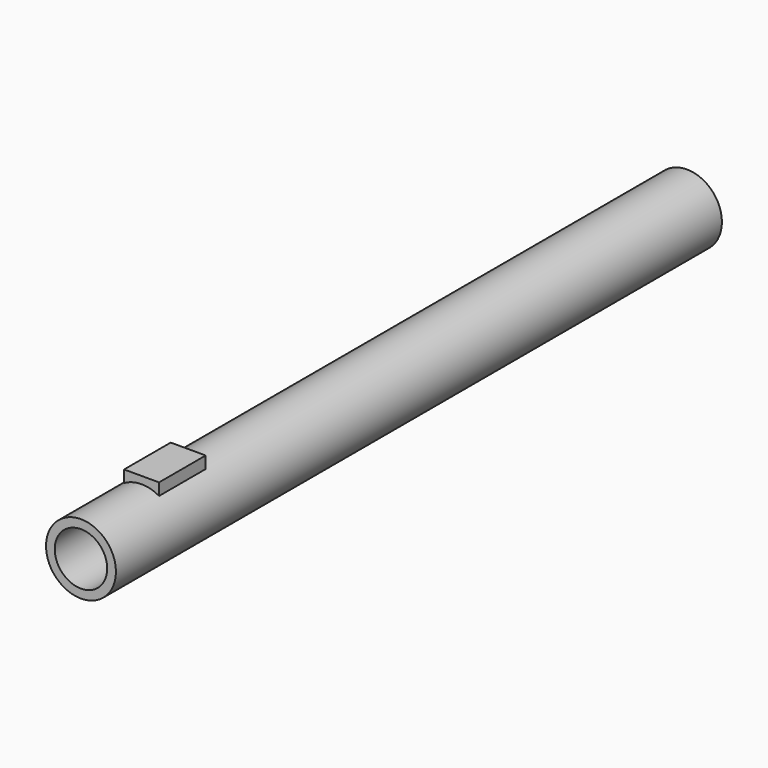
from build123d import *

# Parameters (mm, degrees)
F0_R     = 6
F0_R_2   = 4.5
F1_DEPTH = 130
F3_START = -13
F3_DEPTH = 10


with BuildPart() as f1:
    # F0 (on Front) → F1 (new body)
    with BuildSketch(Plane.XZ):
        Circle(F0_R)
        Circle(F0_R_2, mode=Mode.SUBTRACT)
    extrude(amount=F1_DEPTH)

    # F2 (on face) → F3 (join)
    with BuildSketch(Plane.XZ.offset(130).offset(F3_START)):
        with BuildLine():
            Line((3, 5.1961524227), (3, 7.25))
            Line((3, 7.25), (0, 7.25))
            Line((0, 7.25), (0, 6))
            ThreePointArc((0, 6), (1.5529142706, 5.7955549577), (3, 5.1961524227))
        make_face()
        with BuildLine():
            Line((0, 6), (0, 7.25))
            Line((0, 7.25), (-3, 7.25))
            Line((-3, 7.25), (-3, 5.1961524227))
            ThreePointArc((-3, 5.1961524227), (-1.5529142706, 5.7955549577), (0, 6))
        make_face()
    extrude(amount=-F3_DEPTH)


solid = f1.part
